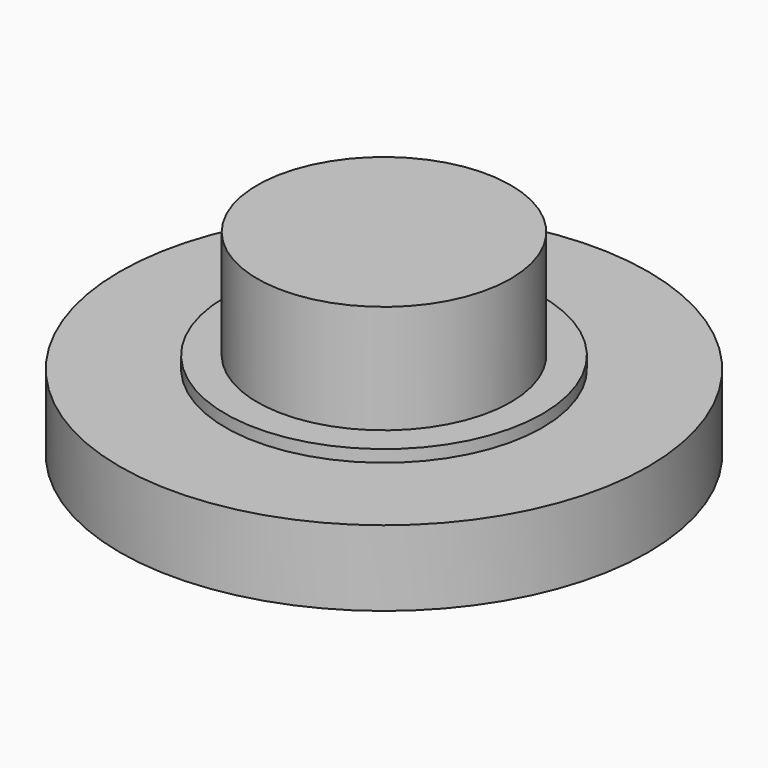
from build123d import *

# Parameters (mm, degrees)
F0_R     = 8.75
F0_R_2   = 5.25
F1_DEPTH = 2.5
F0_R_3   = 4.2
F2_DEPTH = 6.5
F3_DEPTH = 2.9


with BuildPart() as f1:
    # F0 (on Top) → F1 (new body)
    with BuildSketch(Plane.XY):
        Circle(F0_R)
        Circle(F0_R_2, mode=Mode.SUBTRACT)
    extrude(amount=F1_DEPTH)


with BuildPart() as f2:
    # F0 (on Top) → F2 (new body)
    with BuildSketch(Plane.XY):
        Circle(F0_R_3)
    extrude(amount=F2_DEPTH)


with BuildPart() as f3:
    # F0 (on Top) → F3 (new body)
    with BuildSketch(Plane.XY):
        Circle(F0_R_2)
        Circle(F0_R_3, mode=Mode.SUBTRACT)
    extrude(amount=F3_DEPTH)


solid = Compound([f1.part, f2.part, f3.part])
